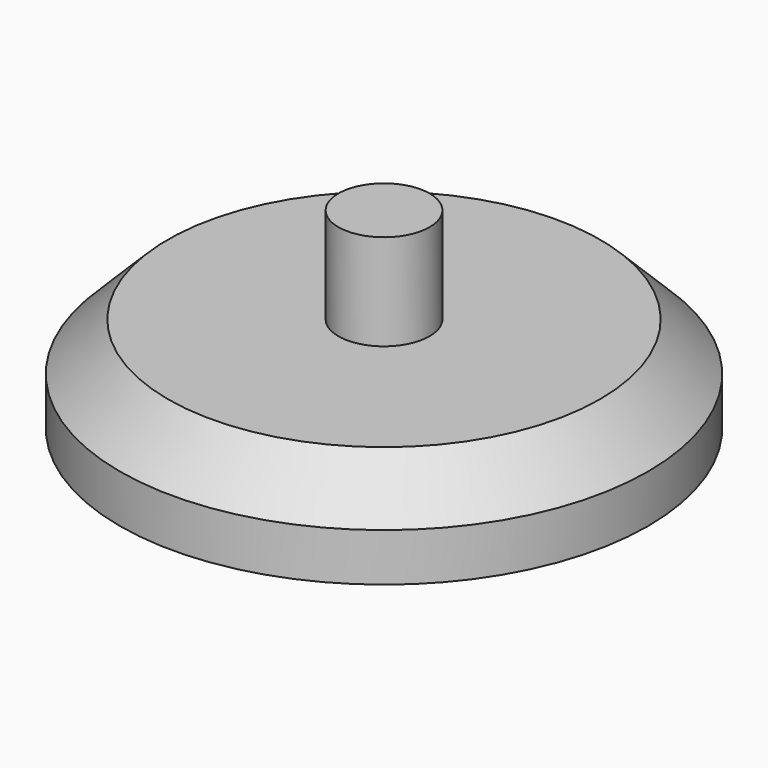
from build123d import *

# Parameters (mm, degrees)
F0_R     = 11
F1_DEPTH = 4
F2_R     = 1.9
F3_DEPTH = 4
F4_SIZE  = 2


with BuildPart() as f1:
    # F0 (on Top) → F1 (new body)
    with BuildSketch(Plane.XY):
        Circle(F0_R)
    extrude(amount=-F1_DEPTH)

    # F2 (on face) → F3 (join)
    with BuildSketch(Plane.XY):
        Circle(F2_R)
    extrude(amount=F3_DEPTH)

    # F4
    f4_edges = [f1.edges().sort_by_distance(p)[0] for p in [
        (-11, 0, 0),
    ]]
    chamfer(f4_edges, length=F4_SIZE)


solid = f1.part
